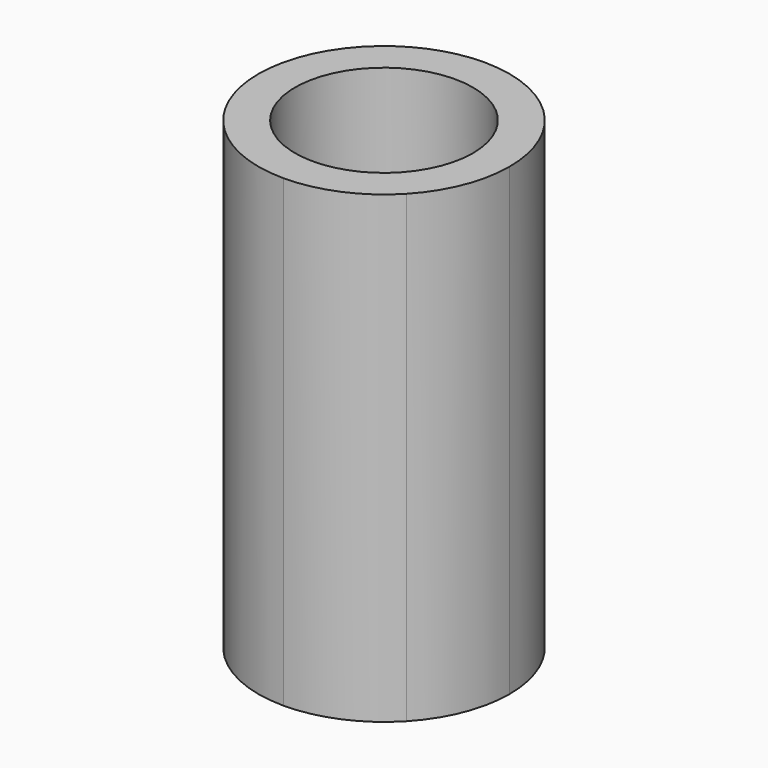
from build123d import *

# Parameters (mm, degrees)
F1_DEPTH = 106.68
F2_R     = 20.442047
F3_DEPTH = 151.13


with BuildPart() as f1:
    # F0 (on Top) → F1 (new body)
    with BuildSketch(Plane.XY):
        with BuildLine():
            Line((0, 0), (28.845539, 0))
            ThreePointArc((28.845539, 0), (26.490793, 11.415035), (19.811004, 20.966383))
            Line((19.811004, 20.966383), (0, 0))
        make_face()
        with BuildLine():
            ThreePointArc((20.966383, -19.811004), (26.803468, -10.660171), (28.845539, 0))
            Line((28.845539, 0), (0, 0))
            Line((0, 0), (20.966383, -19.811004))
        make_face()
        with BuildLine():
            Line((0, 0), (19.811004, 20.966383))
            ThreePointArc((19.811004, 20.966383), (10.660171, 26.803468), (0, 28.845539))
            Line((0, 28.845539), (0, 0))
        make_face()
        with BuildLine():
            ThreePointArc((0, -28.845539), (11.415035, -26.490793), (20.966383, -19.811004))
            Line((20.966383, -19.811004), (0, 0))
            Line((0, 0), (0, -28.845539))
        make_face()
        with BuildLine():
            Line((-19.811004, -20.966383), (0, 0))
            Line((0, 0), (-28.845539, 0))
            ThreePointArc((-28.845539, 0), (-26.490793, -11.415035), (-19.811004, -20.966383))
        make_face()
        with BuildLine():
            Line((-20.966383, 19.811004), (0, 0))
            Line((0, 0), (0, 28.845539))
            ThreePointArc((0, 28.845539), (-11.415035, 26.490793), (-20.966383, 19.811004))
        make_face()
        with BuildLine():
            Line((-28.845539, 0), (0, 0))
            Line((0, 0), (-20.966383, 19.811004))
            ThreePointArc((-20.966383, 19.811004), (-26.803468, 10.660171), (-28.845539, 0))
        make_face()
        with BuildLine():
            Line((0, -28.845539), (0, 0))
            Line((0, 0), (-19.811004, -20.966383))
            ThreePointArc((-19.811004, -20.966383), (-10.660171, -26.803468), (0, -28.845539))
        make_face()
    extrude(amount=F1_DEPTH)

    # F2 (on face) → F3 (cut)
    with BuildSketch(Plane.XY.offset(106.68)):
        Circle(F2_R)
    extrude(amount=-F3_DEPTH, mode=Mode.SUBTRACT)


solid = f1.part
